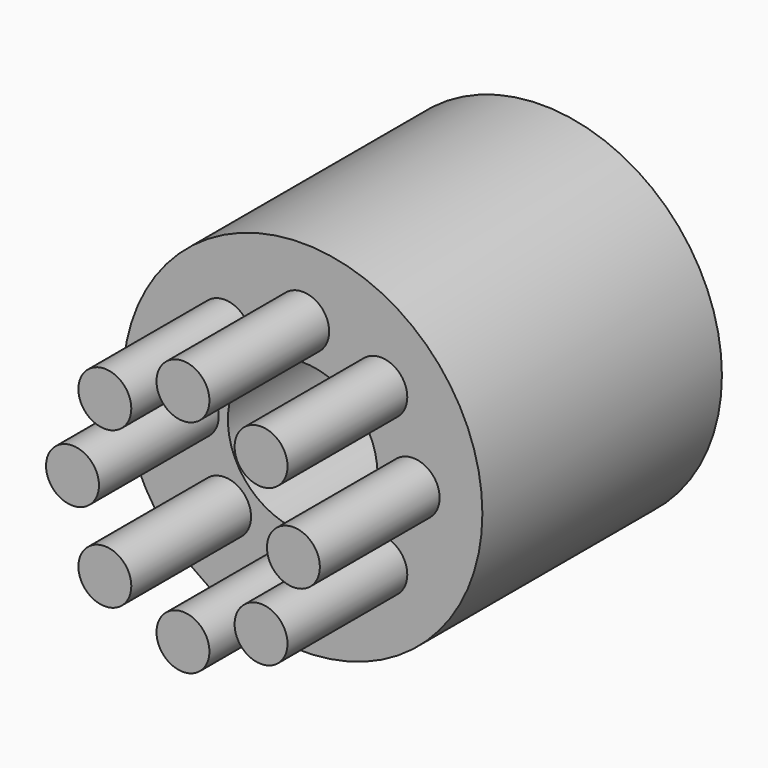
from build123d import *

# Parameters (mm, degrees)
F0_R     = 30
F1_DEPTH = 50
F2_R     = 12.5
F3_DEPTH = 50.001
F4_R     = 4.418686
F5_DEPTH = 25


with BuildPart() as f1:
    # F0 (on Front) → F1 (new body)
    with BuildSketch(Plane.XZ):
        Circle(F0_R)
    extrude(amount=F1_DEPTH)

    # F2 (on face) → F3 (cut, through all)
    with BuildSketch(Plane.XZ.offset(50)):
        Circle(F2_R)
    extrude(amount=-F3_DEPTH, mode=Mode.SUBTRACT)

    # F4 (on face) → F5 (join)
    with BuildSketch(Plane.XZ.offset(50)):
        with Locations((18.444646, 0)):
            Circle(F4_R)
        with Locations((13.042334, 13.042334)):
            Circle(F4_R)
        with Locations((0, 18.444646)):
            Circle(F4_R)
        with Locations((-13.042334, 13.042334)):
            Circle(F4_R)
        with Locations((-18.444646, 0)):
            Circle(F4_R)
        with Locations((-13.042334, -13.042334)):
            Circle(F4_R)
        with Locations((0, -18.444646)):
            Circle(F4_R)
        with Locations((13.042334, -13.042334)):
            Circle(F4_R)
    extrude(amount=F5_DEPTH)


solid = f1.part
